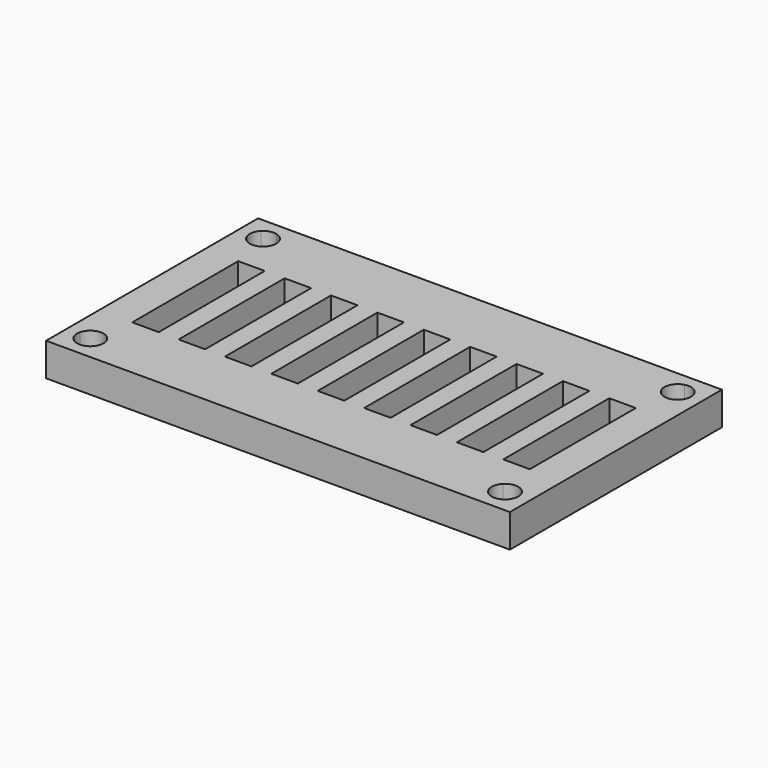
from build123d import *

# Parameters (mm, degrees)
F0_W     = 29
F0_H     = 14
F1_DEPTH = 2.5
F2_W     = 2
F2_H     = 10
F3_DEPTH = 25


with BuildPart() as f1:
    # F0 (on Top) → F1 (new body)
    with BuildSketch(Plane.XY):
        with BuildLine():
            Line((15.387628, 9.112372), (14.5, 10))
            Line((14.5, 10), (-14.5, 10))
            Line((-14.5, 10), (-15.387628, 9.112372))
            ThreePointArc((-15.387628, 9.112372), (-14.853093, 8.755208), (-14.646447, 8.146447))
            ThreePointArc((-14.646447, 8.146447), (-14.722567, 7.763763), (-14.93934, 7.43934))
            Line((-14.93934, 7.43934), (-14.5, 7))
            Line((-14.5, 7), (14.5, 7))
            Line((14.5, 7), (14.93934, 7.43934))
            ThreePointArc((14.93934, 7.43934), (14.680521, 8.405266), (15.387628, 9.112372))
        make_face()
        with BuildLine():
            Line((-17.5, 7), (-17.5, -7))
            Line((-17.5, -7), (-16.612372, -7.887628))
            ThreePointArc((-16.612372, -7.887628), (-15.905266, -7.180521), (-14.93934, -7.43934))
            Line((-14.93934, -7.43934), (-14.5, -7))
            Line((-14.5, -7), (-14.5, 7))
            Line((-14.5, 7), (-14.93934, 7.43934))
            ThreePointArc((-14.93934, 7.43934), (-15.905266, 7.180521), (-16.612372, 7.887628))
            Line((-16.612372, 7.887628), (-17.5, 7))
        make_face()
        with BuildLine():
            Line((-17.5, 10), (-17.5, 7))
            Line((-17.5, 7), (-16.612372, 7.887628))
            ThreePointArc((-16.612372, 7.887628), (-16.612372, 8.405266), (-16.353553, 8.853553))
            Line((-16.353553, 8.853553), (-17.5, 10))
        make_face()
        with BuildLine():
            Line((-15.387628, 9.112372), (-14.5, 10))
            Line((-14.5, 10), (-17.5, 10))
            Line((-17.5, 10), (-16.353553, 8.853553))
            ThreePointArc((-16.353553, 8.853553), (-15.905266, 9.112372), (-15.387628, 9.112372))
        make_face()
        Rectangle(F0_W, F0_H)
        with BuildLine():
            Line((16.612372, 7.887628), (17.5, 7))
            Line((17.5, 7), (17.5, 10))
            Line((17.5, 10), (16.353553, 8.853553))
            ThreePointArc((16.353553, 8.853553), (16.570326, 8.52913), (16.646447, 8.146447))
            ThreePointArc((16.646447, 8.146447), (16.637891, 8.01592), (16.612372, 7.887628))
        make_face()
        with BuildLine():
            Line((16.353553, 8.853553), (17.5, 10))
            Line((17.5, 10), (14.5, 10))
            Line((14.5, 10), (15.387628, 9.112372))
            ThreePointArc((15.387628, 9.112372), (15.905266, 9.112372), (16.353553, 8.853553))
        make_face()
        with BuildLine():
            Line((16.612372, -7.887628), (17.5, -7))
            Line((17.5, -7), (17.5, 7))
            Line((17.5, 7), (16.612372, 7.887628))
            ThreePointArc((16.612372, 7.887628), (15.905266, 7.180521), (14.93934, 7.43934))
            Line((14.93934, 7.43934), (14.5, 7))
            Line((14.5, 7), (14.5, -7))
            Line((14.5, -7), (14.93934, -7.43934))
            ThreePointArc((14.93934, -7.43934), (15.905266, -7.180521), (16.612372, -7.887628))
        make_face()
        with BuildLine():
            Line((14.5, -10), (17.5, -10))
            Line((17.5, -10), (16.353553, -8.853553))
            ThreePointArc((16.353553, -8.853553), (15.905266, -9.112372), (15.387628, -9.112372))
            Line((15.387628, -9.112372), (14.5, -10))
        make_face()
        with BuildLine():
            Line((16.353553, -8.853553), (17.5, -10))
            Line((17.5, -10), (17.5, -7))
            Line((17.5, -7), (16.612372, -7.887628))
            ThreePointArc((16.612372, -7.887628), (16.637891, -8.01592), (16.646447, -8.146447))
            ThreePointArc((16.646447, -8.146447), (16.570326, -8.52913), (16.353553, -8.853553))
        make_face()
        with BuildLine():
            Line((-14.5, -10), (14.5, -10))
            Line((14.5, -10), (15.387628, -9.112372))
            ThreePointArc((15.387628, -9.112372), (14.680521, -8.405266), (14.93934, -7.43934))
            Line((14.93934, -7.43934), (14.5, -7))
            Line((14.5, -7), (-14.5, -7))
            Line((-14.5, -7), (-14.93934, -7.43934))
            ThreePointArc((-14.93934, -7.43934), (-14.722567, -7.763763), (-14.646447, -8.146447))
            ThreePointArc((-14.646447, -8.146447), (-14.853093, -8.755208), (-15.387628, -9.112372))
            Line((-15.387628, -9.112372), (-14.5, -10))
        make_face()
        with BuildLine():
            Line((-17.5, -10), (-14.5, -10))
            Line((-14.5, -10), (-15.387628, -9.112372))
            ThreePointArc((-15.387628, -9.112372), (-15.905266, -9.112372), (-16.353553, -8.853553))
            Line((-16.353553, -8.853553), (-17.5, -10))
        make_face()
        with BuildLine():
            Line((-17.5, -7), (-17.5, -10))
            Line((-17.5, -10), (-16.353553, -8.853553))
            ThreePointArc((-16.353553, -8.853553), (-16.612372, -8.405266), (-16.612372, -7.887628))
            Line((-16.612372, -7.887628), (-17.5, -7))
        make_face()
    extrude(amount=F1_DEPTH)

    # F2 (on face) → F3 (cut)
    with BuildSketch(Plane.XY.offset(2.5)):
        with Locations((-14, 0)):
            Rectangle(F2_W, F2_H)
        with Locations((-10.5, 0)):
            Rectangle(F2_W, F2_H)
        with Locations((-7, 0)):
            Rectangle(F2_W, F2_H)
        with Locations((-3.5, 0)):
            Rectangle(F2_W, F2_H)
        Rectangle(F2_W, F2_H)
        with Locations((3.5, 0)):
            Rectangle(F2_W, F2_H)
        with Locations((7, 0)):
            Rectangle(F2_W, F2_H)
        with Locations((10.5, 0)):
            Rectangle(F2_W, F2_H)
        with Locations((14, 0)):
            Rectangle(F2_W, F2_H)
    extrude(amount=-F3_DEPTH, mode=Mode.SUBTRACT)


solid = f1.part
